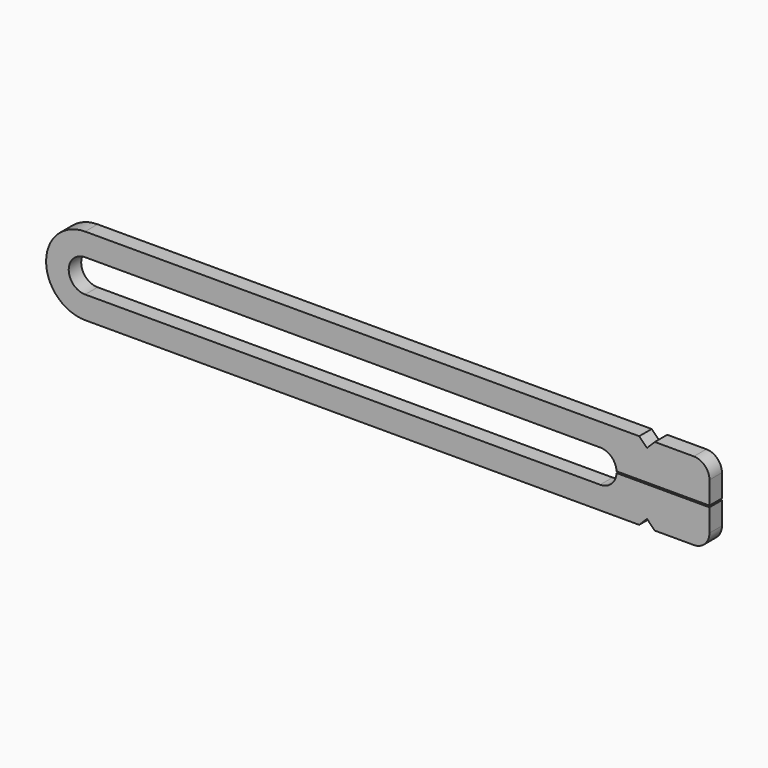
from build123d import *

# Parameters (mm, degrees)
F1_DEPTH = 2
F3_DEPTH = 2.001
F4_R     = 2
F6_DEPTH = 2.001


with BuildPart() as f1:
    # F0 (on Front) → F1 (new body)
    with BuildSketch(Plane.XZ):
        with BuildLine():
            Line((80, 5), (0, 5))
            ThreePointArc((0, 5), (-5, 0), (0, -5))
            Line((0, -5), (80, -5))
            Line((80, -5), (80, 5))
        make_face()
        with BuildLine():
            Line((66, -2.1), (0, -2.1))
            ThreePointArc((0, -2.1), (-2.1, 0), (0, 2.1))
            Line((0, 2.1), (66, 2.1))
            ThreePointArc((66, 2.1), (68.1, 0), (66, -2.1))
        make_face(mode=Mode.SUBTRACT)
    extrude(amount=F1_DEPTH)

    # F2 (on face) → F3 (cut, through all)
    with BuildSketch(Plane.XZ.offset(2)):
        Polygon((73, 5), (71, 5), (72, 4), align=None)
        Polygon((73, -5), (72, -4), (71, -5), align=None)
    extrude(amount=-F3_DEPTH, mode=Mode.SUBTRACT)

    # F4
    f4_edges = [f1.edges().sort_by_distance(p)[0] for p in [
        (80, -1, 5),
        (80, -1, -5),
    ]]
    fillet(f4_edges, radius=F4_R)

    # F5 (on face) → F6 (cut, through all)
    with BuildSketch(Plane.XZ.offset(2)):
        with BuildLine():
            Line((80, -0.1), (80, 0.1))
            Line((80, 0.1), (68.0976176963, 0.1))
            ThreePointArc((68.0976176963, 0.1), (68.1, 0), (68.0976176963, -0.1))
            Line((68.0976176963, -0.1), (80, -0.1))
        make_face()
    extrude(amount=-F6_DEPTH, mode=Mode.SUBTRACT)


solid = f1.part
